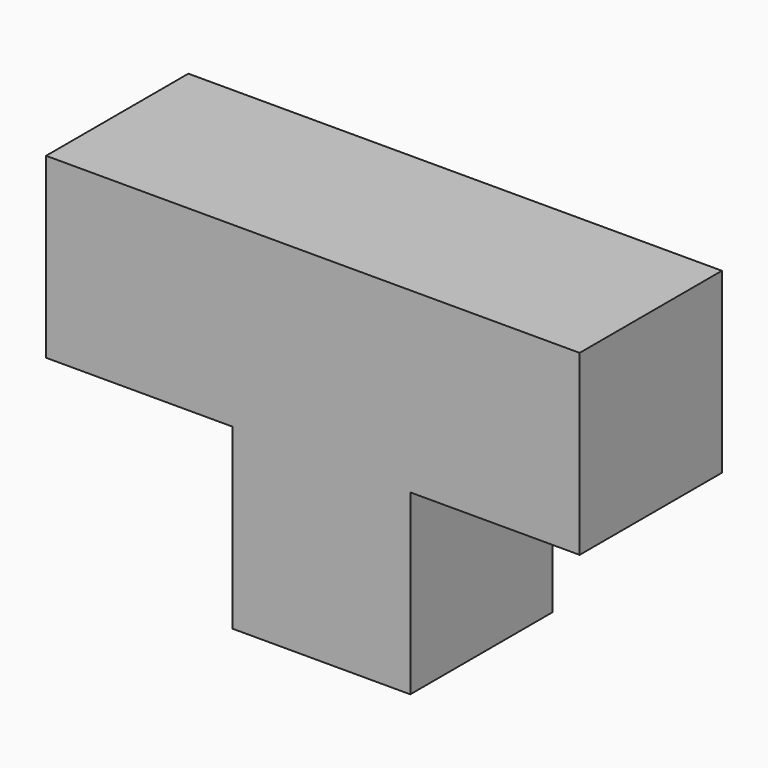
from build123d import *

# Parameters (mm, degrees)
F0_W     = 19.05
F0_H     = 19.05
F1_DEPTH = 19.05


with BuildPart() as f1:
    # F0 (on Front) → F1 (new body)
    with BuildSketch(Plane.XZ):
        with Locations((-6.86382, -0.059725)):
            Rectangle(F0_W, F0_H)
        Polygon((20.802599, 28.515275), (-36.347401, 28.515275), (-36.347401, 9.465275), (-16.38882, 9.465275), (2.66118, 9.465275), (20.802599, 9.465275), align=None)
    extrude(amount=F1_DEPTH)


solid = f1.part
